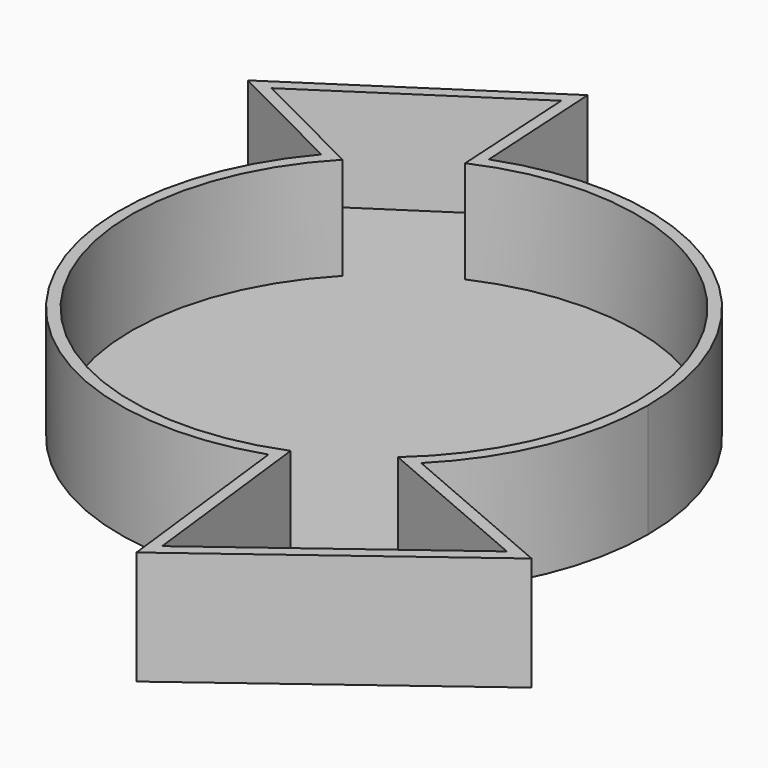
from build123d import *

# Parameters (mm, degrees)
F1_DEPTH = 25.4
F2_T     = -2.54


with BuildPart() as f1:
    # F0 (on Top) → F1 (new body)
    with BuildSketch(Plane.XY):
        with BuildLine():
            ThreePointArc((-44.7707435742, 38.4329316307), (-33.8238240977, 48.3472712501), (-20.7577197015, 55.2324794547))
            Line((-20.7577197015, 55.2324794547), (-22.4666216003, 84.9753552631))
            Line((-22.4666216003, 84.9753552631), (-72.2738917649, 52.2725745408))
            Line((-72.2738917649, 52.2725745408), (-44.7707435742, 38.4329316307))
        make_face()
        with BuildLine():
            Line((-19.0488178027, 25.4896036463), (-20.7577197015, 55.2324794547))
            ThreePointArc((-20.7577197015, 55.2324794547), (-33.8238240977, 48.3472712501), (-44.7707435742, 38.4329316307))
            Line((-44.7707435742, 38.4329316307), (-19.0488178027, 25.4896036463))
        make_face()
        with BuildLine():
            ThreePointArc((41.6978550322, -41.7468393969), (54.5062531857, -22.5959748092), (59.0043194514, 0))
            ThreePointArc((59.0043194514, 0), (33.591029975, 48.5093023979), (-20.7577197015, 55.2324794547))
            Line((-20.7577197015, 55.2324794547), (-19.0488178027, 25.4896036463))
            Line((-19.0488178027, 25.4896036463), (-44.7707435742, 38.4329316307))
            ThreePointArc((-44.7707435742, 38.4329316307), (-48.9087835686, -33.0066751395), (18.8901301186, -55.8987718829))
            Line((18.8901301186, -55.8987718829), (15.9020386636, -30.6659862399))
            Line((15.9020386636, -30.6659862399), (41.6978550322, -41.7468393969))
        make_face()
        with BuildLine():
            Line((79.2929301024, -57.8961831635), (41.6978550322, -41.7468393969))
            ThreePointArc((41.6978550322, -41.7468393969), (31.1094082945, -50.1369567234), (18.8901301186, -55.8987718829))
            Line((18.8901301186, -55.8987718829), (24.0154420971, -99.1792070562))
            Line((24.0154420971, -99.1792070562), (79.2929301024, -57.8961831635))
        make_face()
        with BuildLine():
            ThreePointArc((18.8901301186, -55.8987718829), (31.1094082945, -50.1369567234), (41.6978550322, -41.7468393969))
            Line((41.6978550322, -41.7468393969), (15.9020386636, -30.6659862399))
            Line((15.9020386636, -30.6659862399), (18.8901301186, -55.8987718829))
        make_face()
    extrude(amount=F1_DEPTH)

    # F2
    f2_openings = [f1.faces().sort_by_distance(p)[0] for p in [
        (1.924455, -3.442956, 25.4),
    ]]
    offset(amount=F2_T, openings=f2_openings, kind=Kind.INTERSECTION)


solid = f1.part
